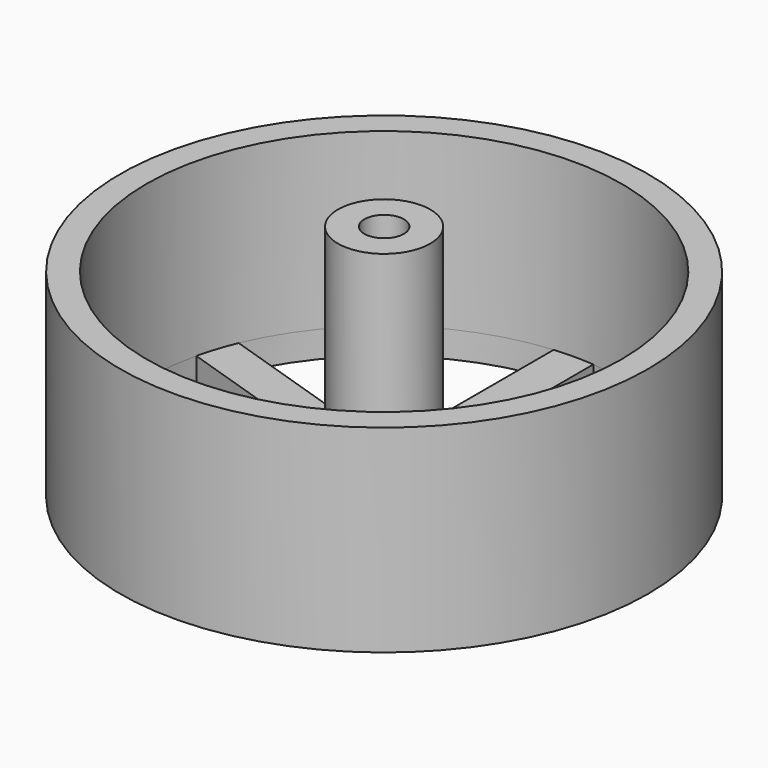
from build123d import *

# Parameters (mm, degrees)
F0_R     = 20
F1_DEPTH = 15
F2_R     = 18
F3_DEPTH = 13
F5_R     = 3.5
F5_R_2   = 1.5
F6_DEPTH = 16
F8_DEPTH = 2


with BuildPart() as f1:
    # F0 (on Top) → F1 (new body)
    with BuildSketch(Plane.XY):
        Circle(F0_R)
    extrude(amount=F1_DEPTH)

    # F2 (on face) → F3 (cut)
    with BuildSketch(Plane.XY.offset(15)):
        Circle(F2_R)
    extrude(amount=-F3_DEPTH, mode=Mode.SUBTRACT)

    # F5 (on face) → F6 (join)
    with BuildSketch(Plane.XY.offset(2)):
        Circle(F5_R)
        Circle(F5_R_2, mode=Mode.SUBTRACT)
    extrude(amount=F6_DEPTH)

    # F7 (on Top) → F8 (cut)
    with BuildSketch(Plane.XY):
        with BuildLine():
            ThreePointArc((-9.3298084702, -15.3933321249), (-5.5623058987, -17.1190172933), (-1.5, -17.9373911147))
            Line((-1.5, -17.9373911147), (-1.5, -4.6165253058))
            Line((-1.5, -4.6165253058), (-9.3298084702, -15.3933321249))
        make_face()
        with BuildLine():
            Line((9.3298084702, -15.3933321249), (1.5, -4.6165253058))
            Line((1.5, -4.6165253058), (1.5, -17.9373911147))
            ThreePointArc((1.5, -17.9373911147), (5.5623058987, -17.1190172933), (9.3298084702, -15.3933321249))
        make_face()
        with BuildLine():
            Line((16.5959472134, -6.9695434636), (3.9270509831, -2.8531695489))
            Line((3.9270509831, -2.8531695489), (11.7568594534, -13.6299763681))
            ThreePointArc((11.7568594534, -13.6299763681), (14.5623058987, -10.5801345413), (16.5959472134, -6.9695434636))
        make_face()
        with BuildLine():
            Line((17.5229981965, 4.1163739147), (4.8541019662, 0))
            Line((4.8541019662, 0), (17.5229981965, -4.1163739147))
            ThreePointArc((17.5229981965, -4.1163739147), (17.8803518916, -2.071959515), (18, 0))
            ThreePointArc((18, 0), (17.8803518916, 2.071959515), (17.5229981965, 4.1163739147))
        make_face()
        with BuildLine():
            Line((11.7568594534, 13.6299763681), (3.9270509831, 2.8531695489))
            Line((3.9270509831, 2.8531695489), (16.5959472134, 6.9695434636))
            ThreePointArc((16.5959472134, 6.9695434636), (14.5623058987, 10.5801345413), (11.7568594534, 13.6299763681))
        make_face()
        with BuildLine():
            Line((1.5, 17.9373911147), (1.5, 4.6165253058))
            Line((1.5, 4.6165253058), (9.3298084702, 15.3933321249))
            ThreePointArc((9.3298084702, 15.3933321249), (5.5623058987, 17.1190172933), (1.5, 17.9373911147))
        make_face()
        with BuildLine():
            Line((-1.5, 4.6165253058), (-1.5, 17.9373911147))
            ThreePointArc((-1.5, 17.9373911147), (-5.5623058987, 17.1190172933), (-9.3298084702, 15.3933321249))
            Line((-9.3298084702, 15.3933321249), (-1.5, 4.6165253058))
        make_face()
        with BuildLine():
            Line((-3.9270509831, 2.8531695489), (-11.7568594534, 13.6299763681))
            ThreePointArc((-11.7568594534, 13.6299763681), (-14.5623058987, 10.5801345413), (-16.5959472134, 6.9695434636))
            Line((-16.5959472134, 6.9695434636), (-3.9270509831, 2.8531695489))
        make_face()
        with BuildLine():
            Line((-4.8541019662, 0), (-17.5229981965, 4.1163739147))
            ThreePointArc((-17.5229981965, 4.1163739147), (-18, 0), (-17.5229981965, -4.1163739147))
            Line((-17.5229981965, -4.1163739147), (-4.8541019662, 0))
        make_face()
        with BuildLine():
            ThreePointArc((-16.5959472134, -6.9695434636), (-14.5623058987, -10.5801345413), (-11.7568594534, -13.6299763681))
            Line((-11.7568594534, -13.6299763681), (-3.9270509831, -2.8531695489))
            Line((-3.9270509831, -2.8531695489), (-16.5959472134, -6.9695434636))
        make_face()
    extrude(amount=F8_DEPTH, mode=Mode.SUBTRACT)


solid = f1.part
